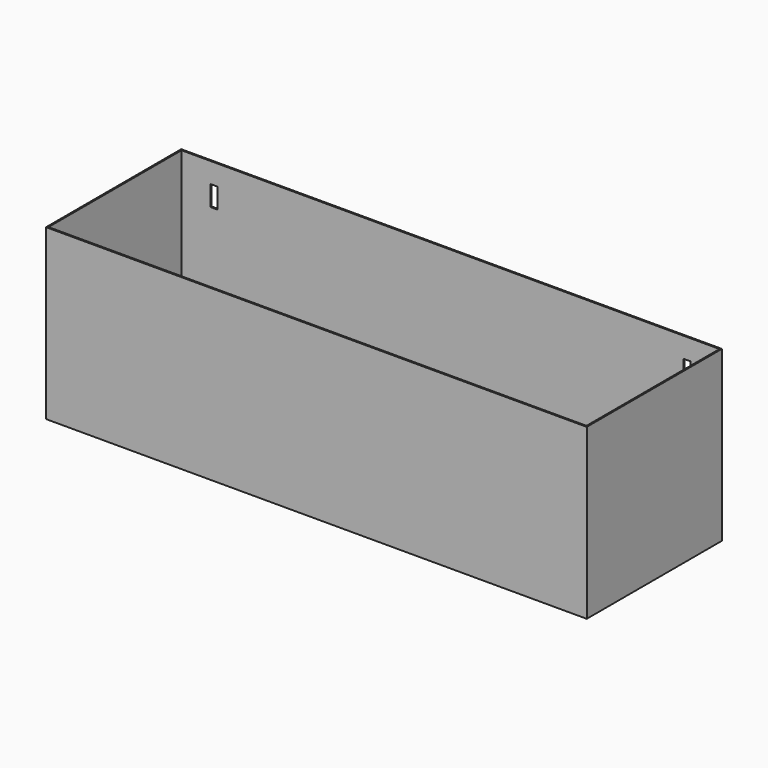
from build123d import *

# Parameters (mm, degrees)
F0_W     = 800
F0_H     = 250
F1_DEPTH = 250
F2_W     = 796
F2_H     = 246
F3_DEPTH = 246
F4_W     = 10
F4_H     = 30
F5_DEPTH = 2


with BuildPart() as f1:
    # F0 (on Top) → F1 (new body)
    with BuildSketch(Plane.XY):
        with Locations((9.119717, -40.146783)):
            Rectangle(F0_W, F0_H)
    extrude(amount=F1_DEPTH)

    # F2 (on face) → F3 (cut)
    with BuildSketch(Plane.XY.offset(250)):
        with Locations((9.119717, -40.146783)):
            Rectangle(F2_W, F2_H)
    extrude(amount=-F3_DEPTH, mode=Mode.SUBTRACT)

    # F4 (on face) → F5 (cut, through all)
    with BuildSketch(Plane(origin=(0, 84.853217, 0), x_dir=(-1, 0, 0), z_dir=(0, 1, 0))):
        with Locations((-359.119717, 205)):
            Rectangle(F4_W, F4_H)
        with Locations((340.880283, 205)):
            Rectangle(F4_W, F4_H)
    extrude(amount=-F5_DEPTH, mode=Mode.SUBTRACT)


solid = f1.part
